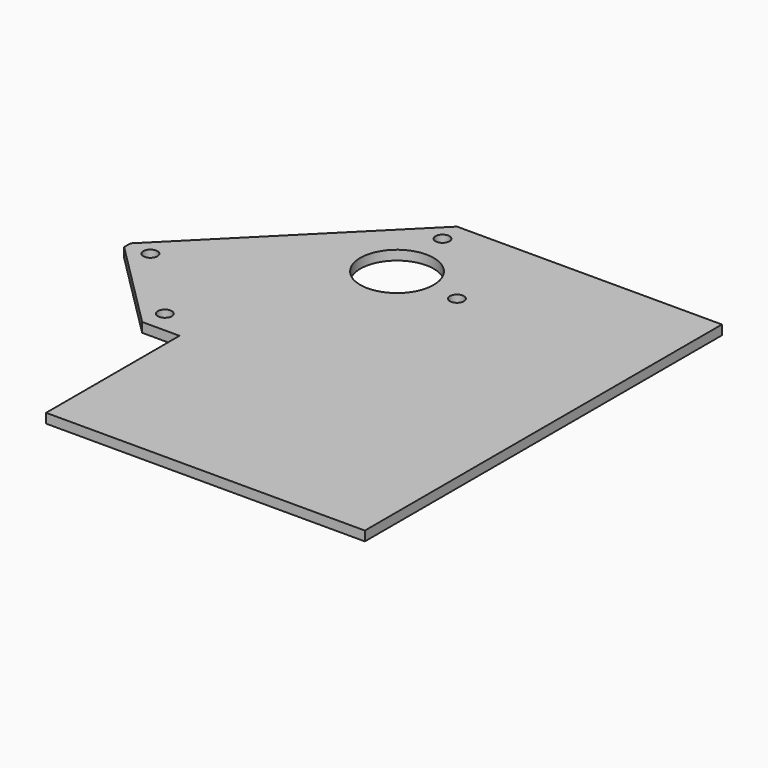
from build123d import *

# Parameters (mm, degrees)
F0_W     = 70
F0_H     = 70
F0_R     = 1.1
F0_R_2   = 5.75
F1_DEPTH = 1.5
F3_DEPTH = 1.5


with BuildPart() as f1:
    # F0 (on Top) → F1 (new body)
    with BuildSketch(Plane.XY):
        Rectangle(F0_W, F0_H)
        with Locations((-20.071068, -5.384776)):
            Circle(F0_R, mode=Mode.SUBTRACT)
        with Locations((-31.384776, 5.928932)):
            Circle(F0_R, mode=Mode.SUBTRACT)
        with Locations((-4.868272, 21.131728)):
            Circle(F0_R_2, mode=Mode.SUBTRACT)
        with Locations((-5.928932, 31.384776)):
            Circle(F0_R, mode=Mode.SUBTRACT)
        with Locations((5.384776, 20.071068)):
            Circle(F0_R, mode=Mode.SUBTRACT)
    extrude(amount=F1_DEPTH)

    # F2 (on face) → F3 (cut, through all)
    with BuildSketch(Plane.XY.offset(1.5)):
        Polygon((-35, 35), (-35, 6.556349), (-6.556349, 35), align=None)
        Polygon((-20.857864, -8.84062), (-35, 5.301515), (-35, -35), (-15, -35), (-15, -8.84062), align=None)
    extrude(amount=-F3_DEPTH, mode=Mode.SUBTRACT)


solid = f1.part
